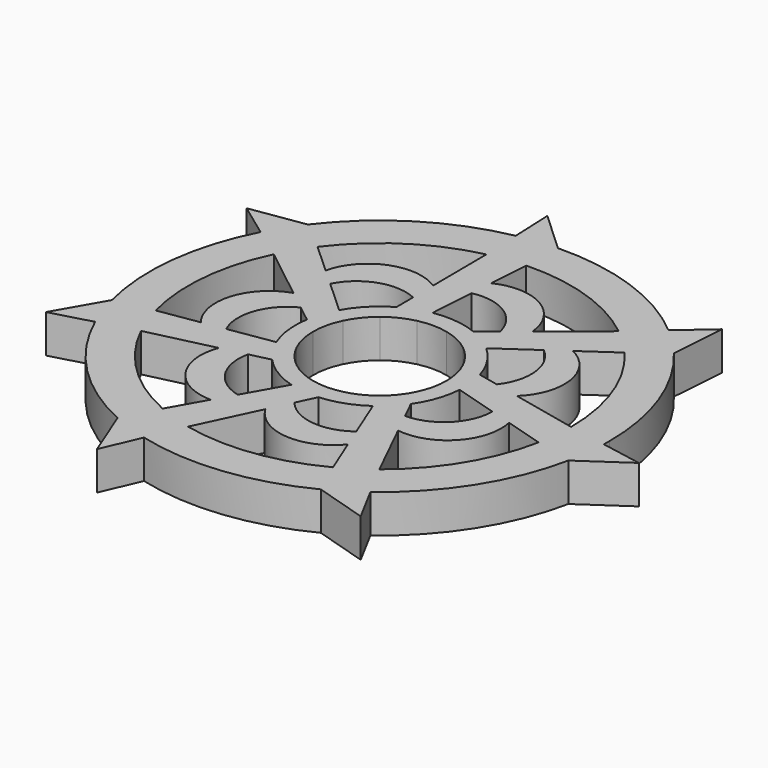
from build123d import *

# Parameters (mm, degrees)
F1_DEPTH = 6.35


with BuildPart() as f1:
    # F0 (on Top) → F1 (new body)
    with BuildSketch(Plane.XY):
        with BuildLine():
            ThreePointArc((38.082651, -1.149654), (38.095662, -0.574892), (38.1, 0))
            ThreePointArc((38.1, 0), (35.807983, 13.015313), (29.207696, 24.464678))
            ThreePointArc((29.207696, 24.464678), (27.023086, 26.858199), (24.64298, 29.057418))
            ThreePointArc((24.64298, 29.057418), (12.693623, 35.923278), (-0.916555, 38.088974))
            ThreePointArc((-0.916555, 38.088974), (-4.149967, 37.873312), (-7.353357, 37.383661))
            ThreePointArc((-7.353357, 37.383661), (-20.171605, 32.322072), (-30.350621, 23.031496))
            ThreePointArc((-30.350621, 23.031496), (-32.19801, 20.369049), (-33.812467, 17.559245))
            ThreePointArc((-33.812467, 17.559245), (-37.847204, 4.381686), (-36.930051, -9.369169))
            ThreePointArc((-36.930051, -9.369169), (-36.000295, -12.473524), (-34.810099, -15.487641))
            ThreePointArc((-34.810099, -15.487641), (-27.023086, -26.858199), (-15.700399, -34.714658))
            ThreePointArc((-15.700399, -34.714658), (-12.693623, -35.923278), (-9.595017, -36.872017))
            ThreePointArc((-9.595017, -36.872017), (4.149967, -37.873312), (17.351974, -33.919302))
            ThreePointArc((17.351974, -33.919302), (20.171605, -32.322072), (22.845309, -30.491013))
            ThreePointArc((22.845309, -30.491013), (32.19801, -20.369049), (37.337956, -7.582019))
            ThreePointArc((37.337956, -7.582019), (37.847204, -4.381686), (38.082651, -1.149654))
        make_face()
        with BuildLine():
            ThreePointArc((31.72503, 0), (31.581265, -3.016833), (31.15127, -6.006323))
            ThreePointArc((31.15127, -6.006323), (27.144782, -16.420669), (19.780233, -24.803628))
            ThreePointArc((19.780233, -24.803628), (17.331942, -26.572191), (14.726567, -28.099925))
            ThreePointArc((14.726567, -28.099925), (4.086298, -31.460765), (-7.059483, -30.929618))
            ThreePointArc((-7.059483, -30.929618), (-9.968687, -30.118148), (-12.787542, -29.03371))
            ThreePointArc((-12.787542, -29.03371), (-22.049251, -22.810263), (-28.583265, -13.764975))
            ThreePointArc((-28.583265, -13.764975), (-29.762691, -10.984525), (-30.672371, -8.10452))
            ThreePointArc((-30.672371, -8.10452), (-31.581265, 3.016833), (-28.583265, 13.764975))
            ThreePointArc((-28.583265, 13.764975), (-27.144782, 16.420669), (-25.460279, 18.927539))
            ThreePointArc((-25.460279, 18.927539), (-17.331942, 26.572191), (-7.059483, 30.929618))
            ThreePointArc((-7.059483, 30.929618), (-4.086298, 31.460765), (-1.076078, 31.706775))
            ThreePointArc((-1.076078, 31.706775), (9.968687, 30.118148), (19.780233, 24.803628))
            ThreePointArc((19.780233, 24.803628), (22.049251, 22.810263), (24.118432, 20.610163))
            ThreePointArc((24.118432, 20.610163), (29.762691, 10.984525), (31.72503, 0))
        make_face(mode=Mode.SUBTRACT)
        with BuildLine():
            Line((-13.655153, -10.244662), (-10.288144, -9.450661))
            ThreePointArc((-10.288144, -9.450661), (-11.79945, -7.478896), (-12.937601, -5.270614))
            Line((-12.937601, -5.270614), (-20.313588, -6.449251))
            Line((-20.313588, -6.449251), (-24.048707, -7.046099))
            Line((-24.048707, -7.046099), (-30.672371, -8.10452))
            ThreePointArc((-30.672371, -8.10452), (-29.762691, -10.984525), (-28.583265, -13.764975))
            Line((-28.583265, -13.764975), (-17.730962, -11.205809))
            Line((-17.730962, -11.205809), (-13.655153, -10.244662))
        make_face()
        with BuildLine():
            ThreePointArc((-13.803377, 2.151204), (-13.204073, 4.562166), (-12.187194, 6.82885))
            Line((-12.187194, 6.82885), (-17.707542, 11.86076))
            Line((-17.707542, 11.86076), (-20.502986, 14.408865))
            Line((-20.502986, 14.408865), (-25.460279, 18.927539))
            ThreePointArc((-25.460279, 18.927539), (-27.144782, 16.420669), (-28.583265, 13.764975))
            Line((-28.583265, 13.764975), (-19.816128, 6.875916))
            Line((-19.816128, 6.875916), (-16.523448, 4.288587))
            Line((-16.523448, 4.288587), (-13.803377, 2.151204))
        make_face()
        with BuildLine():
            ThreePointArc((-6.924386, 12.133169), (-4.66576, 13.167824), (-2.259581, 13.786051))
            Line((-2.259581, 13.786051), (-1.767356, 21.239377))
            Line((-1.767356, 21.239377), (-1.518098, 25.01366))
            Line((-1.518098, 25.01366), (-1.076078, 31.706775))
            ThreePointArc((-1.076078, 31.706775), (-4.086298, 31.460765), (-7.059483, 30.929618))
            Line((-7.059483, 30.929618), (-6.979346, 19.779937))
            Line((-6.979346, 19.779937), (-6.949249, 15.592442))
            Line((-6.949249, 15.592442), (-6.924386, 12.133169))
        make_face()
        with BuildLine():
            ThreePointArc((5.168809, 12.97861), (7.385965, 11.857842), (9.369542, 10.362074))
            Line((9.369542, 10.362074), (15.503685, 14.624309))
            Line((15.503685, 14.624309), (18.609948, 16.782659))
            Line((18.609948, 16.782659), (24.118432, 20.610163))
            ThreePointArc((24.118432, 20.610163), (22.049251, 22.810263), (19.780233, 24.803628))
            Line((19.780233, 24.803628), (11.113026, 17.789261))
            Line((11.113026, 17.789261), (7.857876, 15.15487))
            Line((7.857876, 15.15487), (5.168809, 12.97861))
        make_face()
        with BuildLine():
            ThreePointArc((13.97, 0), (13.963301, -0.432585), (13.94321, -0.864756))
            Line((13.94321, -0.864756), (21.100135, -3.003161))
            Line((21.100135, -3.003161), (24.724324, -4.086027))
            Line((24.724324, -4.086027), (31.15127, -6.006323))
            ThreePointArc((31.15127, -6.006323), (31.581265, -3.016833), (31.72503, 0))
            Line((31.72503, 0), (20.837063, 2.402909))
            Line((20.837063, 2.402909), (16.74786, 3.305372))
            Line((16.74786, 3.305372), (13.369786, 4.050893))
            ThreePointArc((13.369786, 4.050893), (13.819132, 2.047559), (13.97, 0))
        make_face()
        with BuildLine():
            Line((13.026364, -11.033138), (11.503041, -7.927229))
            ThreePointArc((11.503041, -7.927229), (9.917009, -9.839402), (8.017356, -11.440407))
            Line((8.017356, -11.440407), (10.807753, -18.36919))
            Line((10.807753, -18.36919), (12.22078, -21.877851))
            Line((12.22078, -21.877851), (14.726567, -28.099925))
            ThreePointArc((14.726567, -28.099925), (17.331942, -26.572191), (19.780233, -24.803628))
            Line((19.780233, -24.803628), (14.870367, -14.792882))
            Line((14.870367, -14.792882), (13.026364, -11.033138))
        make_face()
        with BuildLine():
            Line((-0.50425, -17.063471), (0.974272, -13.935986))
            ThreePointArc((0.974272, -13.935986), (-1.5096, -13.888197), (-3.945731, -13.401198))
            Line((-3.945731, -13.401198), (-7.623088, -19.902844))
            Line((-7.623088, -19.902844), (-9.485261, -23.195207))
            Line((-9.485261, -23.195207), (-12.787542, -29.03371))
            ThreePointArc((-12.787542, -29.03371), (-9.968687, -30.118148), (-7.059483, -30.929618))
            Line((-7.059483, -30.929618), (-2.294019, -20.849332))
            Line((-2.294019, -20.849332), (-0.50425, -17.063471))
        make_face()
        with BuildLine():
            ThreePointArc((-6.899209, 8.630256), (-4.799901, 9.951952), (-2.458634, 10.771979))
            Line((-2.458634, 10.771979), (-2.259581, 13.786051))
            ThreePointArc((-2.259581, 13.786051), (-4.66576, 13.167824), (-6.924386, 12.133169))
            Line((-6.924386, 12.133169), (-6.899209, 8.630256))
        make_face()
        with BuildLine():
            ThreePointArc((-11.048992, -0.013142), (-10.773439, 2.452227), (-9.954805, 4.793981))
            Line((-9.954805, 4.793981), (-12.187194, 6.82885))
            ThreePointArc((-12.187194, 6.82885), (-13.204073, 4.562166), (-13.803377, 2.151204))
            Line((-13.803377, 2.151204), (-11.048992, -0.013142))
        make_face()
        with BuildLine():
            Line((-10.288144, -9.450661), (-6.878659, -8.646644))
            ThreePointArc((-6.878659, -8.646644), (-8.634357, -6.894075), (-9.954805, -4.793981))
            Line((-9.954805, -4.793981), (-12.937601, -5.270614))
            ThreePointArc((-12.937601, -5.270614), (-11.79945, -7.478896), (-10.288144, -9.450661))
        make_face()
        with BuildLine():
            Line((0.974272, -13.935986), (2.471445, -10.769046))
            ThreePointArc((2.471445, -10.769046), (0.006571, -11.048998), (-2.458634, -10.771979))
            Line((-2.458634, -10.771979), (-3.945731, -13.401198))
            ThreePointArc((-3.945731, -13.401198), (-1.5096, -13.888197), (0.974272, -13.935986))
        make_face()
        with BuildLine():
            Line((11.503041, -7.927229), (9.9605, -4.782137))
            ThreePointArc((9.9605, -4.782137), (8.642552, -6.8838), (6.888939, -8.638456))
            Line((6.888939, -8.638456), (8.017356, -11.440407))
            ThreePointArc((8.017356, -11.440407), (9.917009, -9.839402), (11.503041, -7.927229))
        make_face()
        with BuildLine():
            ThreePointArc((9.949096, 4.805819), (10.770514, 2.46504), (11.049, 0))
            Line((11.049, 0), (13.94321, -0.864756))
            ThreePointArc((13.94321, -0.864756), (13.963301, -0.432585), (13.97, 0))
            ThreePointArc((13.97, 0), (13.819132, 2.047559), (13.369786, 4.050893))
            Line((13.369786, 4.050893), (9.949096, 4.805819))
        make_face()
        with BuildLine():
            ThreePointArc((2.445819, 10.774895), (4.78806, 9.957654), (6.888939, 8.638456))
            Line((6.888939, 8.638456), (9.369542, 10.362074))
            ThreePointArc((9.369542, 10.362074), (7.385965, 11.857842), (5.168809, 12.97861))
            Line((5.168809, 12.97861), (2.445819, 10.774895))
        make_face()
        with BuildLine():
            ThreePointArc((-34.810099, -15.487641), (-36.000295, -12.473524), (-36.930051, -9.369169))
            Line((-36.930051, -9.369169), (-41.486686, -17.311361))
            Line((-41.486686, -17.311361), (-34.810099, -15.487641))
        make_face()
        with BuildLine():
            ThreePointArc((-33.812467, 17.559245), (-32.19801, 20.369049), (-30.350621, 23.031496))
            Line((-30.350621, 23.031496), (-39.401093, 21.64214))
            Line((-39.401093, 21.64214), (-33.812467, 17.559245))
        make_face()
        with BuildLine():
            ThreePointArc((-7.353357, 37.383661), (-4.149967, 37.873312), (-0.916555, 38.088974))
            Line((-0.916555, 38.088974), (-7.645673, 44.298669))
            Line((-7.645673, 44.298669), (-7.353357, 37.383661))
        make_face()
        with BuildLine():
            ThreePointArc((24.64298, 29.057418), (27.023086, 26.858199), (29.207696, 24.464678))
            Line((29.207696, 24.464678), (29.867095, 33.597396))
            Line((29.867095, 33.597396), (24.64298, 29.057418))
        make_face()
        with BuildLine():
            Line((44.889331, -2.403401), (38.082651, -1.149654))
            ThreePointArc((38.082651, -1.149654), (37.847204, -4.381686), (37.337956, -7.582019))
            Line((37.337956, -7.582019), (44.889331, -2.403401))
        make_face()
        with BuildLine():
            Line((26.108985, -36.594388), (22.845309, -30.491013))
            ThreePointArc((22.845309, -30.491013), (20.171605, -32.322072), (17.351974, -33.919302))
            Line((17.351974, -33.919302), (26.108985, -36.594388))
        make_face()
        with BuildLine():
            Line((-12.331959, -43.229055), (-9.595017, -36.872017))
            ThreePointArc((-9.595017, -36.872017), (-12.693623, -35.923278), (-15.700399, -34.714658))
            Line((-15.700399, -34.714658), (-12.331959, -43.229055))
        make_face()
        with BuildLine():
            ThreePointArc((-17.707542, 11.86076), (-13.086324, 15.91168), (-6.949249, 15.592442))
            Line((-6.949249, 15.592442), (-6.979346, 19.779937))
            ThreePointArc((-6.979346, 19.779937), (-15.14156, 20.620406), (-20.502986, 14.408865))
            Line((-20.502986, 14.408865), (-17.707542, 11.86076))
        make_face()
        with BuildLine():
            ThreePointArc((-1.767356, 21.239377), (4.281063, 20.152071), (7.857876, 15.15487))
            Line((7.857876, 15.15487), (11.113026, 17.789261))
            ThreePointArc((11.113026, 17.789261), (6.681074, 24.694761), (-1.518098, 25.01366))
            Line((-1.518098, 25.01366), (-1.767356, 21.239377))
        make_face()
        with BuildLine():
            ThreePointArc((15.503685, 14.624309), (18.424722, 9.217541), (16.74786, 3.305372))
            Line((16.74786, 3.305372), (20.837063, 2.402909))
            ThreePointArc((20.837063, 2.402909), (23.472724, 10.173458), (18.609948, 16.782659))
            Line((18.609948, 16.782659), (15.503685, 14.624309))
        make_face()
        with BuildLine():
            Line((24.724324, -4.086027), (21.100135, -3.003161))
            ThreePointArc((21.100135, -3.003161), (18.69419, -8.657985), (13.026364, -11.033138))
            Line((13.026364, -11.033138), (14.870367, -14.792882))
            ThreePointArc((14.870367, -14.792882), (22.588933, -12.008667), (24.724324, -4.086027))
        make_face()
        with BuildLine():
            Line((-24.048707, -7.046099), (-20.313588, -6.449251))
            ThreePointArc((-20.313588, -6.449251), (-20.599442, -0.31053), (-16.523448, 4.288587))
            Line((-16.523448, 4.288587), (-19.816128, 6.875916))
            ThreePointArc((-19.816128, 6.875916), (-25.562291, 1.018464), (-24.048707, -7.046099))
        make_face()
        with BuildLine():
            Line((12.22078, -21.877851), (10.807753, -18.36919))
            ThreePointArc((10.807753, -18.36919), (4.886551, -20.013872), (-0.50425, -17.063471))
            Line((-0.50425, -17.063471), (-2.294019, -20.849332))
            ThreePointArc((-2.294019, -20.849332), (4.695216, -25.148021), (12.22078, -21.877851))
        make_face()
        with BuildLine():
            Line((-9.485261, -23.195207), (-7.623088, -19.902844))
            ThreePointArc((-7.623088, -19.902844), (-12.60076, -16.298905), (-13.655153, -10.244662))
            Line((-13.655153, -10.244662), (-17.730962, -11.205809))
            ThreePointArc((-17.730962, -11.205809), (-16.734095, -19.350402), (-9.485261, -23.195207))
        make_face()
        with BuildLine():
            Line((-12.937601, -5.270614), (-9.954805, -4.793981))
            ThreePointArc((-9.954805, -4.793981), (-10.770514, -2.46504), (-11.048992, -0.013142))
            Line((-11.048992, -0.013142), (-13.803377, 2.151204))
            ThreePointArc((-13.803377, 2.151204), (-13.875908, -1.618663), (-12.937601, -5.270614))
        make_face()
        with BuildLine():
            Line((-3.945731, -13.401198), (-2.458634, -10.771979))
            ThreePointArc((-2.458634, -10.771979), (-4.78806, -9.957654), (-6.878659, -8.646644))
            Line((-6.878659, -8.646644), (-10.288144, -9.450661))
            ThreePointArc((-10.288144, -9.450661), (-7.385965, -11.857842), (-3.945731, -13.401198))
        make_face()
        with BuildLine():
            Line((8.017356, -11.440407), (6.888939, -8.638456))
            ThreePointArc((6.888939, -8.638456), (4.799901, -9.951952), (2.471445, -10.769046))
            Line((2.471445, -10.769046), (0.974272, -13.935986))
            ThreePointArc((0.974272, -13.935986), (4.66576, -13.167824), (8.017356, -11.440407))
        make_face()
        with BuildLine():
            Line((13.94321, -0.864756), (11.049, 0))
            ThreePointArc((11.049, 0), (10.773439, -2.452227), (9.9605, -4.782137))
            Line((9.9605, -4.782137), (11.503041, -7.927229))
            ThreePointArc((11.503041, -7.927229), (13.204073, -4.562166), (13.94321, -0.864756))
        make_face()
        with BuildLine():
            ThreePointArc((6.888939, 8.638456), (8.634357, 6.894075), (9.949096, 4.805819))
            Line((9.949096, 4.805819), (13.369786, 4.050893))
            ThreePointArc((13.369786, 4.050893), (11.79945, 7.478896), (9.369542, 10.362074))
            Line((9.369542, 10.362074), (6.888939, 8.638456))
        make_face()
        with BuildLine():
            ThreePointArc((-2.458634, 10.771979), (-0.006571, 11.048998), (2.445819, 10.774895))
            Line((2.445819, 10.774895), (5.168809, 12.97861))
            ThreePointArc((5.168809, 12.97861), (1.5096, 13.888197), (-2.259581, 13.786051))
            Line((-2.259581, 13.786051), (-2.458634, 10.771979))
        make_face()
        with BuildLine():
            ThreePointArc((-9.954805, 4.793981), (-8.642552, 6.8838), (-6.899209, 8.630256))
            Line((-6.899209, 8.630256), (-6.924386, 12.133169))
            ThreePointArc((-6.924386, 12.133169), (-9.917009, 9.839402), (-12.187194, 6.82885))
            Line((-12.187194, 6.82885), (-9.954805, 4.793981))
        make_face()
    extrude(amount=F1_DEPTH)


solid = f1.part
